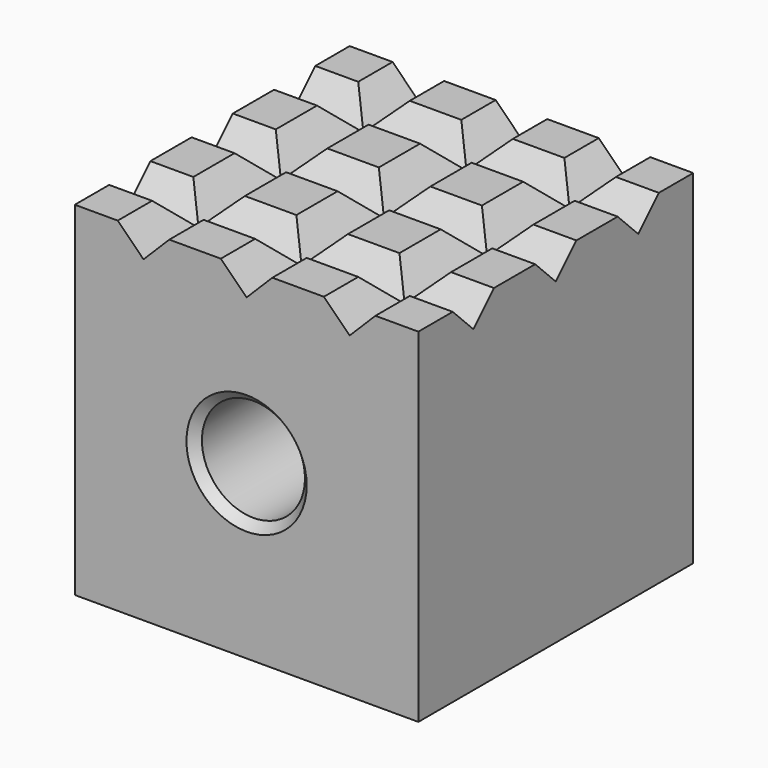
from build123d import *

# Parameters (mm, degrees)
F0_W     = 20
F0_H     = 20
F1_DEPTH = 10
F2_R     = 3
F3_DEPTH = 25
F4_SIZE2 = 0.5
F4_SIZE  = 0.5
F6_DEPTH = 25
F8_DEPTH = 25


with BuildPart() as f1:
    # F0 (on Top) → F1 (new body, symmetric)
    with BuildSketch(Plane.XY):
        Rectangle(F0_W, F0_H)
    extrude(amount=F1_DEPTH, both=True)

    # F2 (on face) → F3 (cut)
    with BuildSketch(Plane.XZ.offset(10)):
        Circle(F2_R)
    extrude(amount=-F3_DEPTH, mode=Mode.SUBTRACT)

    # F4
    f4_edges = [f1.edges().sort_by_distance(p)[0] for p in [
        (-3, -10, 0),
        (-3, 10, 0),
    ]]
    chamfer(f4_edges, length=F4_SIZE, length2=F4_SIZE2)

    # F5 (on face) → F6 (cut)
    with BuildSketch(Plane.XZ.offset(10)):
        Polygon((7.5, 10), (4.5, 10), (6, 8.5), align=None)
        Polygon((0, 8.5), (1.5, 10), (-1.5, 10), align=None)
        Polygon((-6, 8.5), (-4.5, 10), (-7.5, 10), align=None)
    extrude(amount=-F6_DEPTH, mode=Mode.SUBTRACT)

    # F7 (on face) → F8 (cut)
    with BuildSketch(Plane.YZ.offset(10)):
        Polygon((-6, 8.5), (-4.5, 10), (-7.5, 10), align=None)
        Polygon((0, 8.5), (1.5, 10), (-1.5, 10), align=None)
        Polygon((7.5, 10), (4.5, 10), (6, 8.5), align=None)
    extrude(amount=-F8_DEPTH, mode=Mode.SUBTRACT)


solid = f1.part
